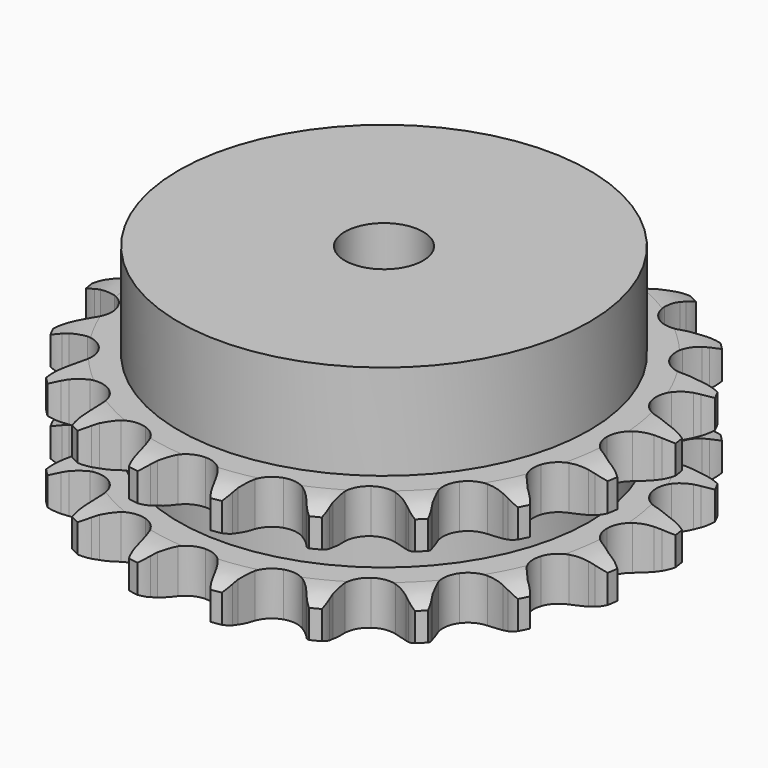
from build123d import *

# Parameters (mm, degrees)
PAD_DEPTH         = 25.5
SKETCH001_R       = 42
PAD001_DEPTH      = 45
SKETCH002_R       = 8
POCKET_DEPTH      = 0.001
POCKET_DEPTH_BACK = 45.001


with BuildPart() as part:
    # Sprocket → Pad (new body)
    with BuildSketch(Plane.XY):
        with BuildLine():
            ThreePointArc((-8.707919, 54.979639), (-7.318424, 53.516846), (-6.318533, 51.764512))
            Line((-6.318533, 51.764512), (-5.829555, 50.601281))
            ThreePointArc((-5.829555, 50.601281), (-5.041899, 49.028367), (-4.053133, 47.573443))
            ThreePointArc((-4.053133, 47.573443), (-2.254762, 46.11715), (0, 45.596597))
            ThreePointArc((0, 45.596597), (2.254762, 46.11715), (4.053133, 47.573443))
            ThreePointArc((4.053133, 47.573443), (5.041899, 49.028367), (5.829555, 50.601281))
            Line((5.829555, 50.601281), (6.318533, 51.764512))
            ThreePointArc((6.318533, 51.764512), (7.318424, 53.516846), (8.707919, 54.979639))
            ThreePointArc((8.707919, 54.979639), (9.57738, 53.159063), (9.986832, 51.18351))
            Line((9.986832, 51.18351), (10.092419, 49.92611))
            ThreePointArc((10.092419, 49.92611), (10.355468, 48.18678), (10.846243, 46.49752))
            ThreePointArc((10.846243, 46.49752), (12.106577, 44.556776), (14.090123, 43.364941))
            ThreePointArc((14.090123, 43.364941), (16.395389, 43.163257), (18.555761, 43.992546))
            Line((18.555761, 43.992546), (21.180892, 46.323246))
            ThreePointArc((21.180892, 46.323246), (21.581785, 46.810649), (22.005396, 47.278442))
            ThreePointArc((22.005396, 47.278442), (23.49785, 48.636028), (25.271366, 49.597849))
            ThreePointArc((25.271366, 49.597849), (25.535683, 47.5977), (25.314616, 45.59231))
            Line((25.314616, 45.59231), (25.026477, 44.363823))
            ThreePointArc((25.026477, 44.363823), (24.739169, 42.628336), (24.683914, 40.870096))
            ThreePointArc((24.683914, 40.870096), (25.28284, 38.634874), (26.801008, 36.888422))
            ThreePointArc((26.801008, 36.888422), (28.931122, 35.984242), (31.242022, 36.105352))
            Line((31.242022, 36.105352), (34.458896, 37.510769))
            ThreePointArc((34.458896, 37.510769), (34.990784, 37.850434), (35.538217, 38.164429))
            ThreePointArc((35.538217, 38.164429), (37.377143, 38.994376), (39.361076, 39.361076))
            ThreePointArc((39.361076, 39.361076), (38.994376, 37.377143), (38.164429, 35.538217))
            Line((38.164429, 35.538217), (37.510769, 34.458896))
            ThreePointArc((37.510769, 34.458896), (36.701228, 32.897133), (36.105352, 31.242022))
            ThreePointArc((36.105352, 31.242022), (35.984242, 28.931122), (36.888422, 26.801008))
            ThreePointArc((36.888422, 26.801008), (38.634874, 25.28284), (40.870096, 24.683914))
            Line((40.870096, 24.683914), (44.363823, 25.026477))
            ThreePointArc((44.363823, 25.026477), (44.97464, 25.185155), (45.59231, 25.314616))
            ThreePointArc((45.59231, 25.314616), (47.5977, 25.535683), (49.597849, 25.271366))
            ThreePointArc((49.597849, 25.271366), (48.636028, 23.49785), (47.278442, 22.005396))
            Line((47.278442, 22.005396), (46.323246, 21.180892))
            ThreePointArc((46.323246, 21.180892), (45.070715, 19.945729), (43.992546, 18.555761))
            ThreePointArc((43.992546, 18.555761), (43.163257, 16.395389), (43.364941, 14.090123))
            ThreePointArc((43.364941, 14.090123), (44.556776, 12.106577), (46.49752, 10.846243))
            Line((46.49752, 10.846243), (49.92611, 10.092419))
            ThreePointArc((49.92611, 10.092419), (50.556066, 10.054578), (51.18351, 9.986832))
            ThreePointArc((51.18351, 9.986832), (53.159063, 9.57738), (54.979639, 8.707919))
            ThreePointArc((54.979639, 8.707919), (53.516846, 7.318424), (51.764512, 6.318533))
            Line((51.764512, 6.318533), (50.601281, 5.829555))
            ThreePointArc((50.601281, 5.829555), (49.028367, 5.041899), (47.573443, 4.053133))
            ThreePointArc((47.573443, 4.053133), (46.11715, 2.254762), (45.596597, 0))
            ThreePointArc((45.596597, 0), (46.11715, -2.254762), (47.573443, -4.053133))
            Line((47.573443, -4.053133), (50.601281, -5.829555))
            ThreePointArc((50.601281, -5.829555), (51.188711, -6.060212), (51.764512, -6.318533))
            ThreePointArc((51.764512, -6.318533), (53.516846, -7.318424), (54.979639, -8.707919))
            ThreePointArc((54.979639, -8.707919), (53.159063, -9.57738), (51.18351, -9.986832))
            Line((51.18351, -9.986832), (49.92611, -10.092419))
            ThreePointArc((49.92611, -10.092419), (48.18678, -10.355468), (46.49752, -10.846243))
            ThreePointArc((46.49752, -10.846243), (44.556776, -12.106577), (43.364941, -14.090123))
            ThreePointArc((43.364941, -14.090123), (43.163257, -16.395389), (43.992546, -18.555761))
            Line((43.992546, -18.555761), (46.323246, -21.180892))
            ThreePointArc((46.323246, -21.180892), (46.810649, -21.581785), (47.278442, -22.005396))
            ThreePointArc((47.278442, -22.005396), (48.636028, -23.49785), (49.597849, -25.271366))
            ThreePointArc((49.597849, -25.271366), (47.5977, -25.535683), (45.59231, -25.314616))
            Line((45.59231, -25.314616), (44.363823, -25.026477))
            ThreePointArc((44.363823, -25.026477), (42.628336, -24.739169), (40.870096, -24.683914))
            ThreePointArc((40.870096, -24.683914), (38.634874, -25.28284), (36.888422, -26.801008))
            ThreePointArc((36.888422, -26.801008), (35.984242, -28.931122), (36.105352, -31.242022))
            Line((36.105352, -31.242022), (37.510769, -34.458896))
            ThreePointArc((37.510769, -34.458896), (37.850434, -34.990784), (38.164429, -35.538217))
            ThreePointArc((38.164429, -35.538217), (38.994376, -37.377143), (39.361076, -39.361076))
            ThreePointArc((39.361076, -39.361076), (37.377143, -38.994376), (35.538217, -38.164429))
            Line((35.538217, -38.164429), (34.458896, -37.510769))
            ThreePointArc((34.458896, -37.510769), (32.897133, -36.701228), (31.242022, -36.105352))
            ThreePointArc((31.242022, -36.105352), (28.931122, -35.984242), (26.801008, -36.888422))
            ThreePointArc((26.801008, -36.888422), (25.28284, -38.634874), (24.683914, -40.870096))
            Line((24.683914, -40.870096), (25.026477, -44.363823))
            ThreePointArc((25.026477, -44.363823), (25.185155, -44.97464), (25.314616, -45.59231))
            ThreePointArc((25.314616, -45.59231), (25.535683, -47.5977), (25.271366, -49.597849))
            ThreePointArc((25.271366, -49.597849), (23.49785, -48.636028), (22.005396, -47.278442))
            Line((22.005396, -47.278442), (21.180892, -46.323246))
            ThreePointArc((21.180892, -46.323246), (19.945729, -45.070715), (18.555761, -43.992546))
            ThreePointArc((18.555761, -43.992546), (16.395389, -43.163257), (14.090123, -43.364941))
            ThreePointArc((14.090123, -43.364941), (12.106577, -44.556776), (10.846243, -46.49752))
            Line((10.846243, -46.49752), (10.092419, -49.92611))
            ThreePointArc((10.092419, -49.92611), (10.054578, -50.556066), (9.986832, -51.18351))
            ThreePointArc((9.986832, -51.18351), (9.57738, -53.159063), (8.707919, -54.979639))
            ThreePointArc((8.707919, -54.979639), (7.318424, -53.516846), (6.318533, -51.764512))
            Line((6.318533, -51.764512), (5.829555, -50.601281))
            ThreePointArc((5.829555, -50.601281), (5.041899, -49.028367), (4.053133, -47.573443))
            ThreePointArc((4.053133, -47.573443), (2.254762, -46.11715), (0, -45.596597))
            ThreePointArc((0, -45.596597), (-2.254762, -46.11715), (-4.053133, -47.573443))
            Line((-4.053133, -47.573443), (-5.829555, -50.601281))
            ThreePointArc((-5.829555, -50.601281), (-6.060212, -51.188711), (-6.318533, -51.764512))
            ThreePointArc((-6.318533, -51.764512), (-7.318424, -53.516846), (-8.707919, -54.979639))
            ThreePointArc((-8.707919, -54.979639), (-9.57738, -53.159063), (-9.986832, -51.18351))
            Line((-9.986832, -51.18351), (-10.092419, -49.92611))
            ThreePointArc((-10.092419, -49.92611), (-10.355468, -48.18678), (-10.846243, -46.49752))
            ThreePointArc((-10.846243, -46.49752), (-12.106577, -44.556776), (-14.090123, -43.364941))
            ThreePointArc((-14.090123, -43.364941), (-16.395389, -43.163257), (-18.555761, -43.992546))
            Line((-18.555761, -43.992546), (-21.180892, -46.323246))
            ThreePointArc((-21.180892, -46.323246), (-21.581785, -46.810649), (-22.005396, -47.278442))
            ThreePointArc((-22.005396, -47.278442), (-23.49785, -48.636028), (-25.271366, -49.597849))
            ThreePointArc((-25.271366, -49.597849), (-25.535683, -47.5977), (-25.314616, -45.59231))
            Line((-25.314616, -45.59231), (-25.026477, -44.363823))
            ThreePointArc((-25.026477, -44.363823), (-24.739169, -42.628336), (-24.683914, -40.870096))
            ThreePointArc((-24.683914, -40.870096), (-25.28284, -38.634874), (-26.801008, -36.888422))
            ThreePointArc((-26.801008, -36.888422), (-28.931122, -35.984242), (-31.242022, -36.105352))
            Line((-31.242022, -36.105352), (-34.458896, -37.510769))
            ThreePointArc((-34.458896, -37.510769), (-34.990784, -37.850434), (-35.538217, -38.164429))
            ThreePointArc((-35.538217, -38.164429), (-37.377143, -38.994376), (-39.361076, -39.361076))
            ThreePointArc((-39.361076, -39.361076), (-38.994376, -37.377143), (-38.164429, -35.538217))
            Line((-38.164429, -35.538217), (-37.510769, -34.458896))
            ThreePointArc((-37.510769, -34.458896), (-36.701228, -32.897133), (-36.105352, -31.242022))
            ThreePointArc((-36.105352, -31.242022), (-35.984242, -28.931122), (-36.888422, -26.801008))
            ThreePointArc((-36.888422, -26.801008), (-38.634874, -25.28284), (-40.870096, -24.683914))
            Line((-40.870096, -24.683914), (-44.363823, -25.026477))
            ThreePointArc((-44.363823, -25.026477), (-44.97464, -25.185155), (-45.59231, -25.314616))
            ThreePointArc((-45.59231, -25.314616), (-47.5977, -25.535683), (-49.597849, -25.271366))
            ThreePointArc((-49.597849, -25.271366), (-48.636028, -23.49785), (-47.278442, -22.005396))
            Line((-47.278442, -22.005396), (-46.323246, -21.180892))
            ThreePointArc((-46.323246, -21.180892), (-45.070715, -19.945729), (-43.992546, -18.555761))
            ThreePointArc((-43.992546, -18.555761), (-43.163257, -16.395389), (-43.364941, -14.090123))
            ThreePointArc((-43.364941, -14.090123), (-44.556776, -12.106577), (-46.49752, -10.846243))
            Line((-46.49752, -10.846243), (-49.92611, -10.092419))
            ThreePointArc((-49.92611, -10.092419), (-50.556066, -10.054578), (-51.18351, -9.986832))
            ThreePointArc((-51.18351, -9.986832), (-53.159063, -9.57738), (-54.979639, -8.707919))
            ThreePointArc((-54.979639, -8.707919), (-53.516846, -7.318424), (-51.764512, -6.318533))
            Line((-51.764512, -6.318533), (-50.601281, -5.829555))
            ThreePointArc((-50.601281, -5.829555), (-49.028367, -5.041899), (-47.573443, -4.053133))
            ThreePointArc((-47.573443, -4.053133), (-46.11715, -2.254762), (-45.596597, 0))
            ThreePointArc((-45.596597, 0), (-46.11715, 2.254762), (-47.573443, 4.053133))
            Line((-47.573443, 4.053133), (-50.601281, 5.829555))
            ThreePointArc((-50.601281, 5.829555), (-51.188711, 6.060212), (-51.764512, 6.318533))
            ThreePointArc((-51.764512, 6.318533), (-53.516846, 7.318424), (-54.979639, 8.707919))
            ThreePointArc((-54.979639, 8.707919), (-53.159063, 9.57738), (-51.18351, 9.986832))
            Line((-51.18351, 9.986832), (-49.92611, 10.092419))
            ThreePointArc((-49.92611, 10.092419), (-48.18678, 10.355468), (-46.49752, 10.846243))
            ThreePointArc((-46.49752, 10.846243), (-44.556776, 12.106577), (-43.364941, 14.090123))
            ThreePointArc((-43.364941, 14.090123), (-43.163257, 16.395389), (-43.992546, 18.555761))
            Line((-43.992546, 18.555761), (-46.323246, 21.180892))
            ThreePointArc((-46.323246, 21.180892), (-46.810649, 21.581785), (-47.278442, 22.005396))
            ThreePointArc((-47.278442, 22.005396), (-48.636028, 23.49785), (-49.597849, 25.271366))
            ThreePointArc((-49.597849, 25.271366), (-47.5977, 25.535683), (-45.59231, 25.314616))
            Line((-45.59231, 25.314616), (-44.363823, 25.026477))
            ThreePointArc((-44.363823, 25.026477), (-42.628336, 24.739169), (-40.870096, 24.683914))
            ThreePointArc((-40.870096, 24.683914), (-38.634874, 25.28284), (-36.888422, 26.801008))
            ThreePointArc((-36.888422, 26.801008), (-35.984242, 28.931122), (-36.105352, 31.242022))
            Line((-36.105352, 31.242022), (-37.510769, 34.458896))
            ThreePointArc((-37.510769, 34.458896), (-37.850434, 34.990784), (-38.164429, 35.538217))
            ThreePointArc((-38.164429, 35.538217), (-38.994376, 37.377143), (-39.361076, 39.361076))
            ThreePointArc((-39.361076, 39.361076), (-37.377143, 38.994376), (-35.538217, 38.164429))
            Line((-35.538217, 38.164429), (-34.458896, 37.510769))
            ThreePointArc((-34.458896, 37.510769), (-32.897133, 36.701228), (-31.242022, 36.105352))
            ThreePointArc((-31.242022, 36.105352), (-28.931122, 35.984242), (-26.801008, 36.888422))
            ThreePointArc((-26.801008, 36.888422), (-25.28284, 38.634874), (-24.683914, 40.870096))
            Line((-24.683914, 40.870096), (-25.026477, 44.363823))
            ThreePointArc((-25.026477, 44.363823), (-25.185155, 44.97464), (-25.314616, 45.59231))
            ThreePointArc((-25.314616, 45.59231), (-25.535683, 47.5977), (-25.271366, 49.597849))
            ThreePointArc((-25.271366, 49.597849), (-23.49785, 48.636028), (-22.005396, 47.278442))
            Line((-22.005396, 47.278442), (-21.180892, 46.323246))
            ThreePointArc((-21.180892, 46.323246), (-19.945729, 45.070715), (-18.555761, 43.992546))
            ThreePointArc((-18.555761, 43.992546), (-16.395389, 43.163257), (-14.090123, 43.364941))
            ThreePointArc((-14.090123, 43.364941), (-12.106577, 44.556776), (-10.846243, 46.49752))
            Line((-10.846243, 46.49752), (-10.092419, 49.92611))
            ThreePointArc((-10.092419, 49.92611), (-10.054578, 50.556066), (-9.986832, 51.18351))
            ThreePointArc((-9.986832, 51.18351), (-9.57738, 53.159063), (-8.707919, 54.979639))
        make_face()
    extrude(amount=PAD_DEPTH)

    # Sketch → Groove (revolve, cut)
    with BuildSketch(Plane.XZ):
        with BuildLine():
            ThreePointArc((47.225762, 0), (50.80347, 0.405129), (54.2, 1.6))
            Line((54.2, 1.6), (54.2, 7.4))
            ThreePointArc((54.2, 7.4), (50.80347, 8.594871), (47.225762, 9))
            Line((42, 9), (47.225762, 9))
            Line((42, 16.5), (42, 9))
            Line((47.225762, 16.5), (42, 16.5))
            ThreePointArc((47.225762, 16.5), (50.80347, 16.905129), (54.2, 18.1))
            Line((54.2, 18.1), (54.2, 23.9))
            ThreePointArc((54.2, 23.9), (50.80347, 25.094871), (47.225762, 25.5))
            Line((47.225762, 25.5), (57.225762, 25.5))
            Line((57.225762, 25.5), (57.225762, 0))
            Line((47.225762, 0), (57.225762, 0))
        make_face()
    revolve(axis=Axis((0, 0, 0), (0, 0, 1)), mode=Mode.SUBTRACT)

    # Sketch001 → Pad001 (join)
    with BuildSketch(Plane.XY):
        Circle(SKETCH001_R)
    extrude(amount=PAD001_DEPTH)

    # Sketch002 → Pocket (cut, two sides)
    with BuildSketch(Plane.XY) as pocket_sk:
        Circle(SKETCH002_R)
    extrude(amount=-POCKET_DEPTH, mode=Mode.SUBTRACT)
    extrude(pocket_sk.sketch, amount=POCKET_DEPTH_BACK, mode=Mode.SUBTRACT)


solid = part.part
